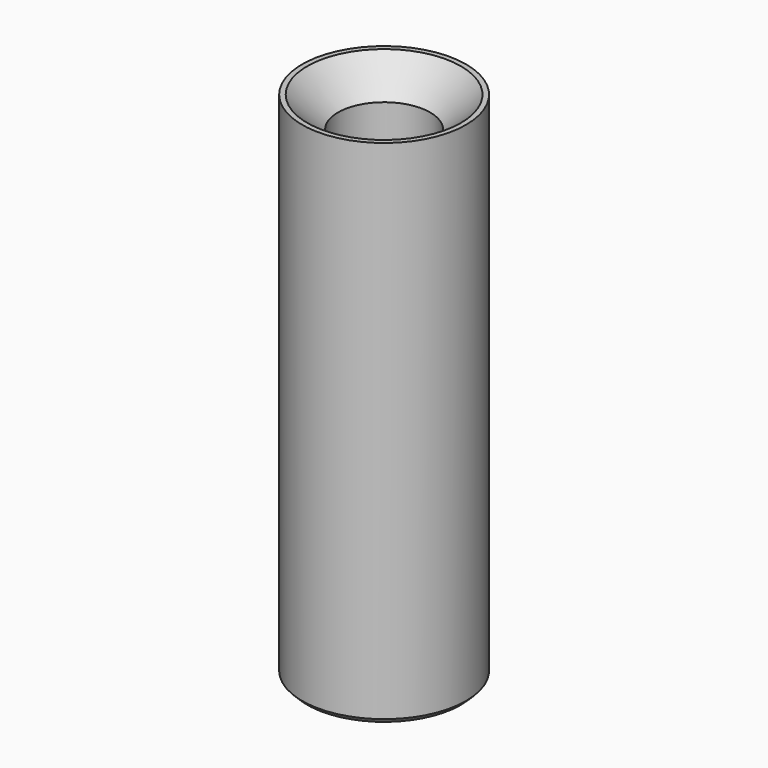
from build123d import *

# Parameters (mm, degrees)
SKETCH_R        = 4
SKETCH_R_2      = 2.25
PAD_DEPTH       = 25
CHAMFER_SIZE    = 0.25
CHAMFER001_SIZE = 1.5


with BuildPart() as part:
    # Sketch → Pad (new body)
    with BuildSketch(Plane.XY):
        Circle(SKETCH_R)
        Circle(SKETCH_R_2, mode=Mode.SUBTRACT)
    extrude(amount=PAD_DEPTH)

    # Chamfer
    chamfer_edges = [part.edges().sort_by_distance(p)[0] for p in [
        (-4, 0, 0),
    ]]
    chamfer(chamfer_edges, length=CHAMFER_SIZE)

    # Chamfer001
    chamfer001_edges = [part.edges().sort_by_distance(p)[0] for p in [
        (-2.25, 0, 25),
    ]]
    chamfer(chamfer001_edges, length=CHAMFER001_SIZE)


solid = part.part
